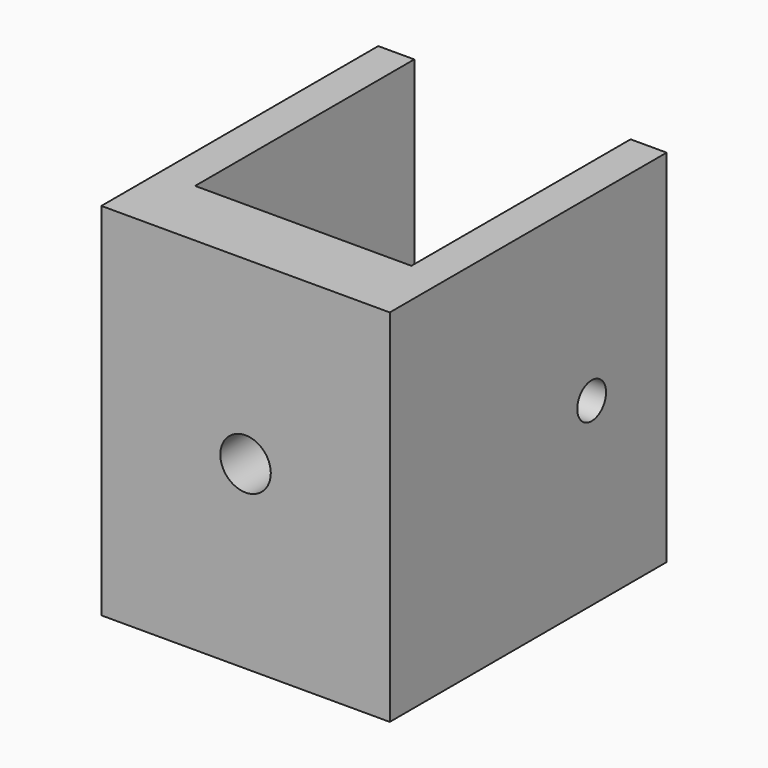
from build123d import *

# Parameters (mm, degrees)
F1_DEPTH = 50
F2_R     = 3.5
F3_DEPTH = 25
F4_R     = 2.5
F5_DEPTH = 40.001


with BuildPart() as f1:
    # F0 (on Top) → F1 (new body)
    with BuildSketch(Plane.XY):
        Polygon((0, 48), (0, 0), (40, 0), (40, 48), (35, 48), (35, 10), (5, 10), (5, 48), align=None)
    extrude(amount=F1_DEPTH)

    # F2 (on face) → F3 (cut)
    with BuildSketch(Plane.XZ):
        with Locations((20, 25)):
            Circle(F2_R)
    extrude(amount=-F3_DEPTH, mode=Mode.SUBTRACT)

    # F4 (on face) → F5 (cut, through all)
    with BuildSketch(Plane.YZ.offset(40)):
        with Locations((35, 25)):
            Circle(F4_R)
    extrude(amount=-F5_DEPTH, mode=Mode.SUBTRACT)


solid = f1.part
